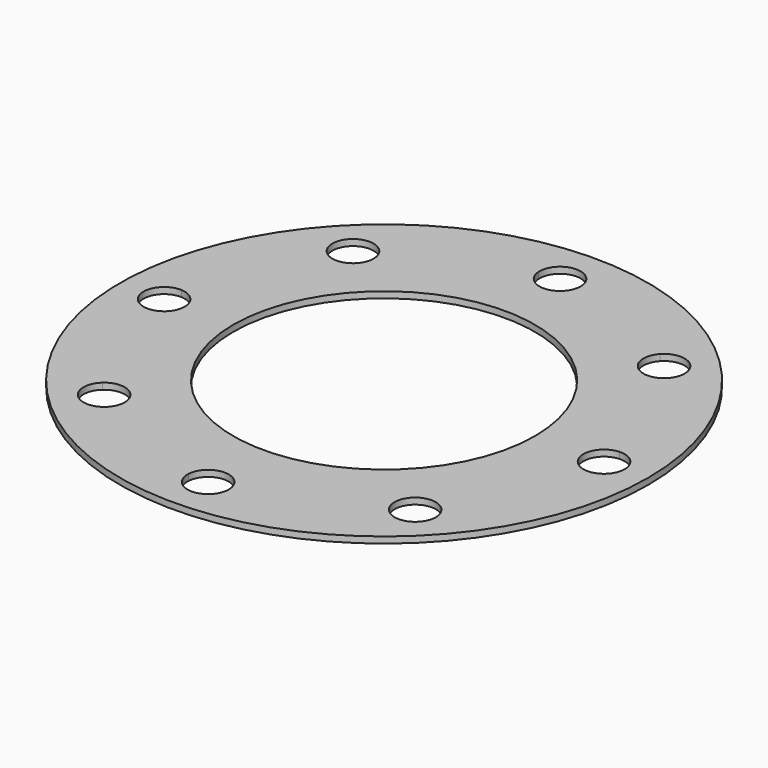
from build123d import *

# Parameters (mm, degrees)
F0_R     = 42
F0_R_2   = 24
F1_DEPTH = 1


with BuildPart() as f1:
    # F0 (on Top) → F1 (new body)
    with BuildSketch(Plane.XY):
        Circle(F0_R)
        with BuildLine():
            ThreePointArc((26.951217, 22.330067), (32.335784, 13.39392), (34.84713, 3.267646))
            ThreePointArc((34.84713, 3.267646), (37.258408, 2.366532), (38.27122, 0))
            ThreePointArc((38.27122, 0), (37.258408, -2.366532), (34.84713, -3.267646))
            ThreePointArc((34.84713, -3.267646), (32.335784, -13.39392), (26.951217, -22.330067))
            ThreePointArc((26.951217, -22.330067), (27.740867, -23.426602), (28.019957, -24.748737))
            ThreePointArc((28.019957, -24.748737), (25.929601, -27.799383), (22.330067, -26.951217))
            ThreePointArc((22.330067, -26.951217), (13.39392, -32.335784), (3.267646, -34.84713))
            ThreePointArc((3.267646, -34.84713), (3.270326, -34.923544), (3.27122, -35))
            ThreePointArc((3.27122, -35), (-0.076456, -38.270326), (-3.267646, -34.84713))
            ThreePointArc((-3.267646, -34.84713), (-13.39392, -32.335784), (-22.330067, -26.951217))
            ThreePointArc((-22.330067, -26.951217), (-27.061839, -27.061839), (-26.951217, -22.330067))
            ThreePointArc((-26.951217, -22.330067), (-32.335784, -13.39392), (-34.84713, -3.267646))
            ThreePointArc((-34.84713, -3.267646), (-38.27122, 0), (-34.84713, 3.267646))
            ThreePointArc((-34.84713, 3.267646), (-32.335784, 13.39392), (-26.951217, 22.330067))
            ThreePointArc((-26.951217, 22.330067), (-27.061839, 27.061839), (-22.330067, 26.951217))
            ThreePointArc((-22.330067, 26.951217), (-13.39392, 32.335784), (-3.267646, 34.84713))
            ThreePointArc((-3.267646, 34.84713), (-0.076456, 38.270326), (3.27122, 35))
            ThreePointArc((3.27122, 35), (3.270326, 34.923544), (3.267646, 34.84713))
            ThreePointArc((3.267646, 34.84713), (13.39392, 32.335784), (22.330067, 26.951217))
            ThreePointArc((22.330067, 26.951217), (25.929601, 27.799383), (28.019957, 24.748737))
            ThreePointArc((28.019957, 24.748737), (27.740867, 23.426602), (26.951217, 22.330067))
        make_face(mode=Mode.SUBTRACT)
        with BuildLine():
            ThreePointArc((34.84713, -3.267646), (31.72878, 0), (34.84713, 3.267646))
            ThreePointArc((34.84713, 3.267646), (32.335784, 13.39392), (26.951217, 22.330067))
            ThreePointArc((26.951217, 22.330067), (22.435636, 22.435636), (22.330067, 26.951217))
            ThreePointArc((22.330067, 26.951217), (13.39392, 32.335784), (3.267646, 34.84713))
            ThreePointArc((3.267646, 34.84713), (0, 31.72878), (-3.267646, 34.84713))
            ThreePointArc((-3.267646, 34.84713), (-13.39392, 32.335784), (-22.330067, 26.951217))
            ThreePointArc((-22.330067, 26.951217), (-21.698091, 25.929601), (-21.477517, 24.748737))
            ThreePointArc((-21.477517, 24.748737), (-23.426602, 21.756608), (-26.951217, 22.330067))
            ThreePointArc((-26.951217, 22.330067), (-32.335784, 13.39392), (-34.84713, 3.267646))
            ThreePointArc((-34.84713, 3.267646), (-32.633468, 2.258408), (-31.72878, 0))
            ThreePointArc((-31.72878, 0), (-32.633468, -2.258408), (-34.84713, -3.267646))
            ThreePointArc((-34.84713, -3.267646), (-32.335784, -13.39392), (-26.951217, -22.330067))
            ThreePointArc((-26.951217, -22.330067), (-23.426602, -21.756608), (-21.477517, -24.748737))
            ThreePointArc((-21.477517, -24.748737), (-21.698091, -25.929601), (-22.330067, -26.951217))
            ThreePointArc((-22.330067, -26.951217), (-13.39392, -32.335784), (-3.267646, -34.84713))
            ThreePointArc((-3.267646, -34.84713), (0, -31.72878), (3.267646, -34.84713))
            ThreePointArc((3.267646, -34.84713), (13.39392, -32.335784), (22.330067, -26.951217))
            ThreePointArc((22.330067, -26.951217), (22.435636, -22.435636), (26.951217, -22.330067))
            ThreePointArc((26.951217, -22.330067), (32.335784, -13.39392), (34.84713, -3.267646))
        make_face()
        Circle(F0_R_2, mode=Mode.SUBTRACT)
    extrude(amount=F1_DEPTH)


solid = f1.part
